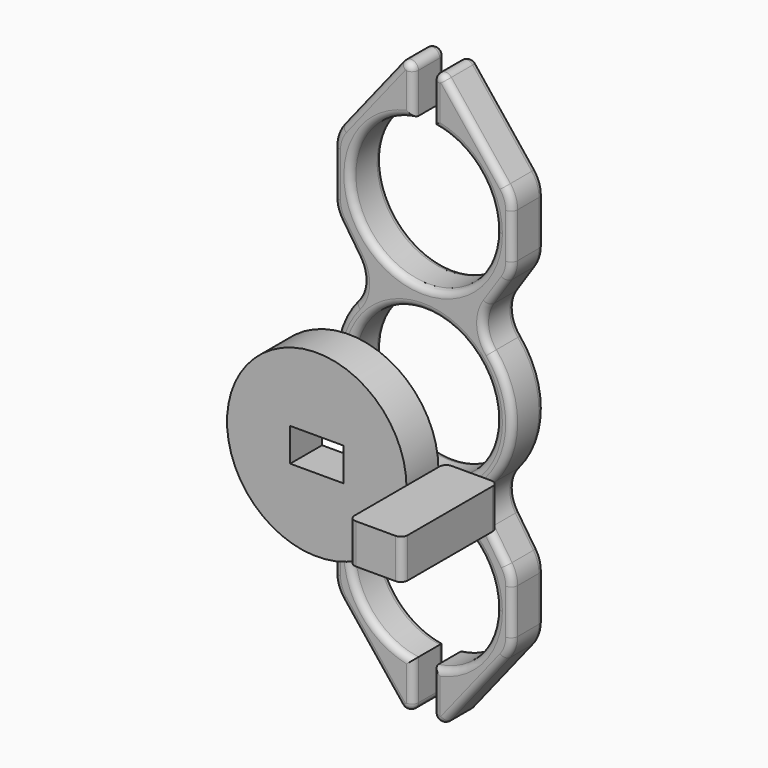
from build123d import *

# Parameters (mm, degrees)
F0_R     = 10.925
F1_DEPTH = 6
F2_R     = 1
F4_DEPTH = 6
F6_START = 20
F5_R     = 13.5
F5_W     = 8
F5_H     = 5
F6_DEPTH = 6


with BuildPart() as f1:
    # F0 (on Front) → F1 (new body)
    with BuildSketch(Plane.XZ):
        with BuildLine():
            ThreePointArc((10.925, 25), (-7.175239543, 16.7615800969), (-1.5, 35.8215352423))
            Line((-1.5, 35.8215352423), (-1.5, 41.8631555635))
            ThreePointArc((-1.5, 41.8631555635), (-2.2339138616, 42.8965248676), (-3.4513735743, 42.544000368))
            Line((-3.4513735743, 42.544000368), (-12.3327616047, 31.3658815178))
            ThreePointArc((-12.3327616047, 31.3658815178), (-13.1389007628, 29.9026207651), (-13.418, 28.2554729308))
            Line((-13.418, 28.2554729308), (-13.418, 21.5143349215))
            ThreePointArc((-13.418, 21.5143349215), (-13.2033388792, 20.0650137663), (-12.5777872756, 18.7401377725))
            Line((-12.5777872756, 18.7401377725), (-9.8800528652, 14.6950030287))
            ThreePointArc((-9.8800528652, 14.6950030287), (-9.0482164962, 11.6315077802), (-10.2283947774, 8.6846222876))
            ThreePointArc((-10.2283947774, 8.6846222876), (-13.418, 0), (-10.2283947774, -8.6846222876))
            ThreePointArc((-10.2283947774, -8.6846222876), (-9.0482164962, -11.6315077802), (-9.8800528652, -14.6950030287))
            Line((-9.8800528652, -14.6950030287), (-12.5777872756, -18.7401377725))
            ThreePointArc((-12.5777872756, -18.7401377725), (-13.2033388792, -20.0650137663), (-13.418, -21.5143349215))
            Line((-13.418, -21.5143349215), (-13.418, -28.2554729308))
            ThreePointArc((-13.418, -28.2554729308), (-13.1389007628, -29.9026207651), (-12.3327616047, -31.3658815178))
            Line((-12.3327616047, -31.3658815178), (-3.4513735743, -42.544000368))
            ThreePointArc((-3.4513735743, -42.544000368), (-2.2339138616, -42.8965248676), (-1.5, -41.8631555635))
            Line((-1.5, -41.8631555635), (-1.5, -35.8215352423))
            ThreePointArc((-1.5, -35.8215352423), (-7.175239543, -16.7615800969), (10.925, -25))
            ThreePointArc((10.925, -25), (8.2384199031, -32.175239543), (1.5, -35.8215352423))
            Line((1.5, -35.8215352423), (1.5, -41.8631555635))
            ThreePointArc((1.5, -41.8631555635), (2.2339138616, -42.8965248676), (3.4513735743, -42.544000368))
            Line((3.4513735743, -42.544000368), (12.3327616047, -31.3658815178))
            ThreePointArc((12.3327616047, -31.3658815178), (13.1389007628, -29.9026207651), (13.418, -28.2554729308))
            Line((13.418, -28.2554729308), (13.418, -21.5143349215))
            ThreePointArc((13.418, -21.5143349215), (13.2033388792, -20.0650137663), (12.5777872756, -18.7401377725))
            Line((12.5777872756, -18.7401377725), (9.8800528652, -14.6950030287))
            ThreePointArc((9.8800528652, -14.6950030287), (9.0482164962, -11.6315077802), (10.2283947774, -8.6846222876))
            ThreePointArc((10.2283947774, -8.6846222876), (13.418, 0), (10.2283947774, 8.6846222876))
            ThreePointArc((10.2283947774, 8.6846222876), (9.0482164962, 11.6315077802), (9.8800528652, 14.6950030287))
            Line((9.8800528652, 14.6950030287), (12.5777872756, 18.7401377725))
            ThreePointArc((12.5777872756, 18.7401377725), (13.2033388792, 20.0650137663), (13.418, 21.5143349215))
            Line((13.418, 21.5143349215), (13.418, 28.2554729308))
            ThreePointArc((13.418, 28.2554729308), (13.1389007628, 29.9026207651), (12.3327616047, 31.3658815178))
            Line((12.3327616047, 31.3658815178), (3.4513735743, 42.544000368))
            ThreePointArc((3.4513735743, 42.544000368), (2.2339138616, 42.8965248676), (1.5, 41.8631555635))
            Line((1.5, 41.8631555635), (1.5, 35.8215352423))
            ThreePointArc((1.5, 35.8215352423), (8.2384199031, 32.175239543), (10.925, 25))
        make_face()
        Circle(F0_R, mode=Mode.SUBTRACT)
    extrude(amount=F1_DEPTH)

    # F2
    f2_edges = [f1.edges().sort_by_distance(p)[0] for p in [
        (7.892068, -6, -36.954941),
        (13.138901, -6, -29.902621),
        (13.418, -6, -24.884904),
        (13.203339, -6, -20.065014),
        (11.22892, -6, -16.71757),
        (9.048216, -6, -11.631508),
        (13.418, -6, 0),
        (9.048216, -6, 11.631508),
        (11.22892, -6, 16.71757),
        (13.203339, -6, 20.065014),
        (13.418, -6, 24.884904),
        (13.138901, -6, 29.902621),
        (7.892068, -6, 36.954941),
        (2.233914, -6, 42.896525),
        (1.5, -6, 38.842345),
        (0, -6, 14.075),
        (-1.5, -6, 38.842345),
        (-2.233914, -6, 42.896525),
        (-7.892068, -6, 36.954941),
        (-13.138901, -6, 29.902621),
        (-13.418, -6, 24.884904),
        (-13.203339, -6, 20.065014),
        (-11.22892, -6, 16.71757),
        (-9.048216, -6, 11.631508),
        (-13.418, -6, 0),
        (-9.048216, -6, -11.631508),
        (-11.22892, -6, -16.71757),
        (-13.203339, -6, -20.065014),
        (-13.418, -6, -24.884904),
        (-13.138901, -6, -29.902621),
        (-7.892068, -6, -36.954941),
        (-2.233914, -6, -42.896525),
        (-1.5, -6, -38.842345),
        (-7.17524, -6, -16.76158),
        (8.23842, -6, -32.17524),
        (1.5, -6, -38.842345),
        (2.233914, -6, -42.896525),
        (-10.925, -6, 0),
        (7.892068, 0, -36.954941),
        (13.138901, 0, -29.902621),
        (13.418, 0, -24.884904),
        (13.203339, 0, -20.065014),
        (11.22892, 0, -16.71757),
        (9.048216, 0, -11.631508),
        (13.418, 0, 0),
        (9.048216, 0, 11.631508),
        (11.22892, 0, 16.71757),
        (13.203339, 0, 20.065014),
        (13.418, 0, 24.884904),
        (13.138901, 0, 29.902621),
        (7.892068, 0, 36.954941),
        (2.233914, 0, 42.896525),
        (1.5, 0, 38.842345),
        (0, 0, 14.075),
        (-1.5, 0, 38.842345),
        (-2.233914, 0, 42.896525),
        (-7.892068, 0, 36.954941),
        (-13.138901, 0, 29.902621),
        (-13.418, 0, 24.884904),
        (-13.203339, 0, 20.065014),
        (-11.22892, 0, 16.71757),
        (-9.048216, 0, 11.631508),
        (-13.418, 0, 0),
        (-9.048216, 0, -11.631508),
        (-11.22892, 0, -16.71757),
        (-13.203339, 0, -20.065014),
        (-13.418, 0, -24.884904),
        (-13.138901, 0, -29.902621),
        (-7.892068, 0, -36.954941),
        (-2.233914, 0, -42.896525),
        (-1.5, 0, -38.842345),
        (-7.17524, 0, -16.76158),
        (8.23842, 0, -32.17524),
        (1.5, 0, -38.842345),
        (2.233914, 0, -42.896525),
        (-10.925, 0, 0),
    ]]
    fillet(f2_edges, radius=F2_R)


with BuildPart() as f4:
    # F3 (on Top) → F4 (new body)
    with BuildSketch(Plane.XY):
        with BuildLine():
            Line((27.347636193, -27.3550294042), (21.347636193, -27.3550294042))
            ThreePointArc((21.347636193, -27.3550294042), (20.6405294119, -27.647922623), (20.347636193, -28.3550294042))
            Line((20.347636193, -28.3550294042), (20.347636193, -44.3550294042))
            ThreePointArc((20.347636193, -44.3550294042), (20.6405294119, -45.0621361853), (21.347636193, -45.3550294042))
            Line((21.347636193, -45.3550294042), (27.347636193, -45.3550294042))
            ThreePointArc((27.347636193, -45.3550294042), (28.0547429742, -45.0621361853), (28.347636193, -44.3550294042))
            Line((28.347636193, -44.3550294042), (28.347636193, -28.3550294042))
            ThreePointArc((28.347636193, -28.3550294042), (28.0547429742, -27.647922623), (27.347636193, -27.3550294042))
        make_face()
    extrude(amount=F4_DEPTH)


with BuildPart() as f6:
    # F5 (on Front) → F6 (new body)
    with BuildSketch(Plane.XZ.offset(F6_START)):
        Circle(F5_R)
        Rectangle(F5_W, F5_H, mode=Mode.SUBTRACT)
    extrude(amount=F6_DEPTH)


solid = Compound([f1.part, f4.part, f6.part])
